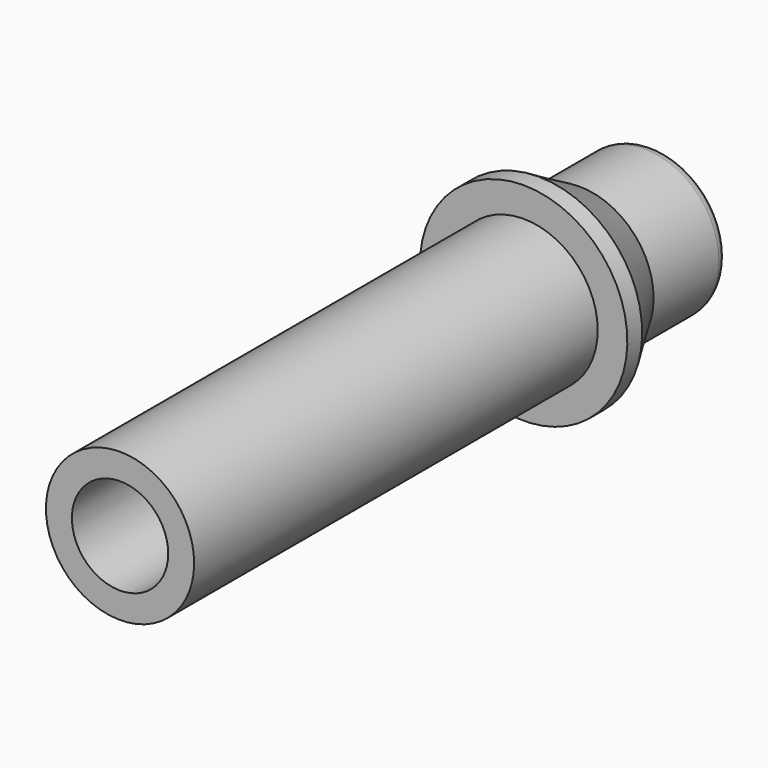
from build123d import *

# Parameters (mm, degrees)
F0_R     = 5.08
F0_R_2   = 3.302
F1_DEPTH = 45.72
F4_R     = 0.762


with BuildPart() as f1:
    # F0 (on Front) → F1 (new body)
    with BuildSketch(Plane.XZ):
        Circle(F0_R)
        Circle(F0_R_2, mode=Mode.SUBTRACT)
    extrude(amount=F1_DEPTH)

    # F2 (on Right) → F3 (revolve)
    with BuildSketch(Plane.YZ):
        Polygon((-11.139527, 7.112), (-11.139527, 5.08), (-6.35, 5.08), (-9.869527, 7.112), align=None)
    revolve(axis=Axis((0, -45.72, 0), (0, -1, 0)))

    # F4
    f4_edges = [f1.edges().sort_by_distance(p)[0] for p in [
        (-5.08, 0, 0),
    ]]
    fillet(f4_edges, radius=F4_R)


solid = f1.part
